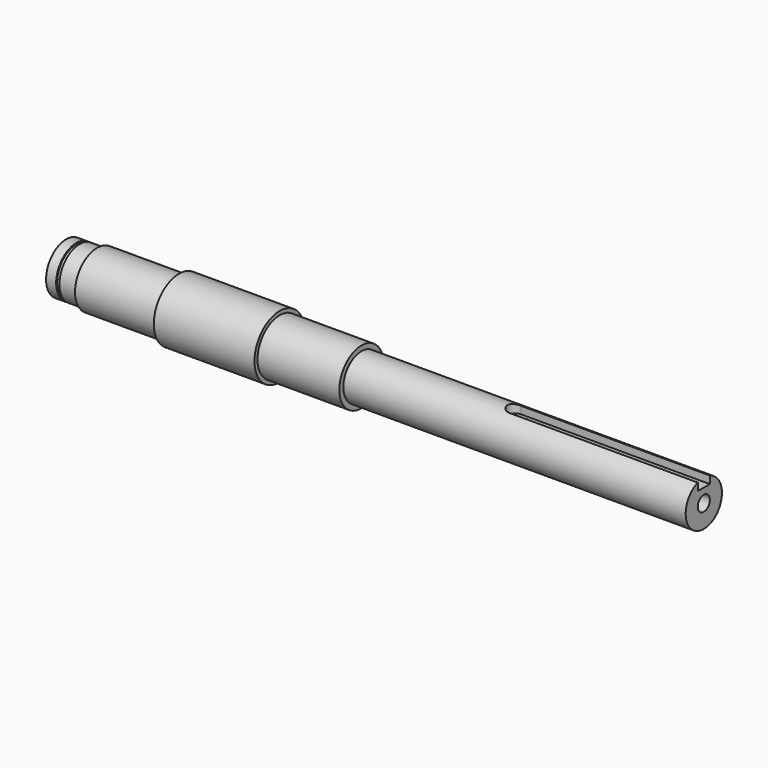
from build123d import *

# Parameters (mm, degrees)
F4_DEPTH = 3.5
F6_D     = 6
F6_DEPTH = 25
F6_TIP   = 1.8025818571


with BuildPart() as f1:
    # F0 (on Front) → F1 (revolve)
    with BuildSketch(Plane.XZ):
        Polygon((0, 10), (0, 0), (253.3, 0), (253.3, 9), (117.3, 9), (117.3, 9.5), (117.3, 11), (84.8, 11), (84.8, 12.5), (44.8, 12.5), (44.8, 11), (12.3, 11), (12.3, 10), (5.3, 10), (5.3, 9.5), (4, 9.5), (4, 10), align=None)
    revolve(axis=Axis((126.65, 0, 0), (1, 0, 0)))

    # F3 (on offset) → F4 (cut)
    with BuildSketch(Plane.XY.offset(9)):
        with BuildLine():
            Line((178.3, -3), (253.3, -3))
            Line((253.3, -3), (253.3, 3))
            Line((253.3, 3), (178.3, 3))
            ThreePointArc((178.3, 3), (175.3, 0), (178.3, -3))
        make_face()
    extrude(amount=-F4_DEPTH, mode=Mode.SUBTRACT)

    # F6
    with Locations(Plane.YZ.offset(253.3)):
        with Locations((0, 0)):
            Hole(F6_D / 2, depth=F6_DEPTH)
            with Locations((0, 0, -(F6_DEPTH + F6_TIP / 2))):  # 118° drill point
                Cone(0, F6_D / 2, F6_TIP, mode=Mode.SUBTRACT)


solid = f1.part
